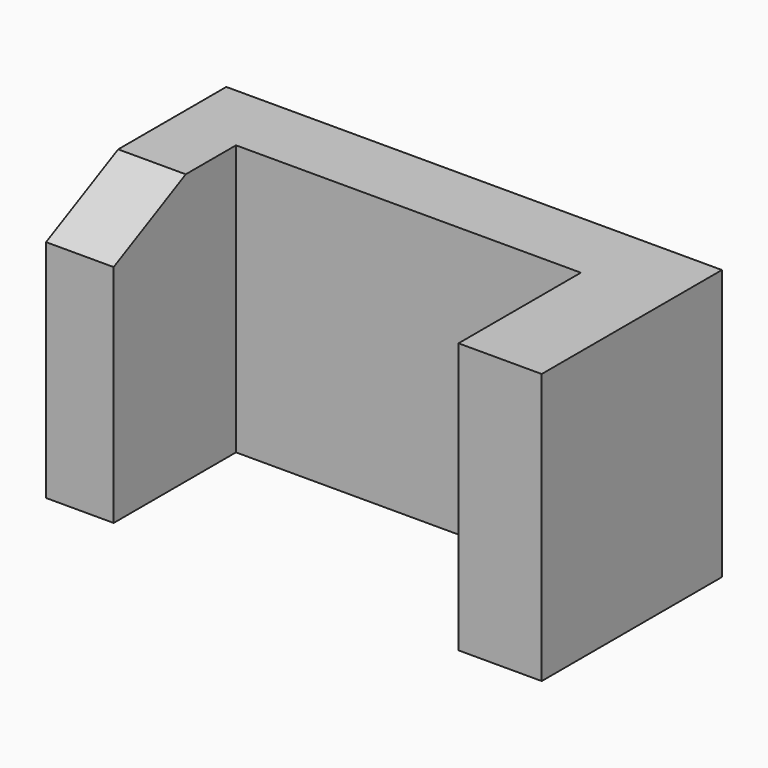
from build123d import *

# Parameters (mm, degrees)
F1_DEPTH = 60
F3_DEPTH = 25


with BuildPart() as f1:
    # F0 (on Top) → F1 (new body)
    with BuildSketch(Plane.XY):
        Polygon((-54.709053, 31.494253), (-54.709053, -18.505747), (-39.709053, -18.505747), (-39.709053, 15.428343), (36.831179, 15.428343), (36.831179, -18.505747), (55.290947, -18.505747), (55.290947, 31.494253), align=None)
    extrude(amount=F1_DEPTH)

    # F2 (on face) → F3 (cut)
    with BuildSketch(Plane(origin=(-54.709053, 0, 0), x_dir=(0, -1, 0), z_dir=(-1, 0, 0))):
        Polygon((18.505747, 60), (-1.494253, 60), (18.505747, 50), align=None)
    extrude(amount=-F3_DEPTH, mode=Mode.SUBTRACT)


solid = f1.part
